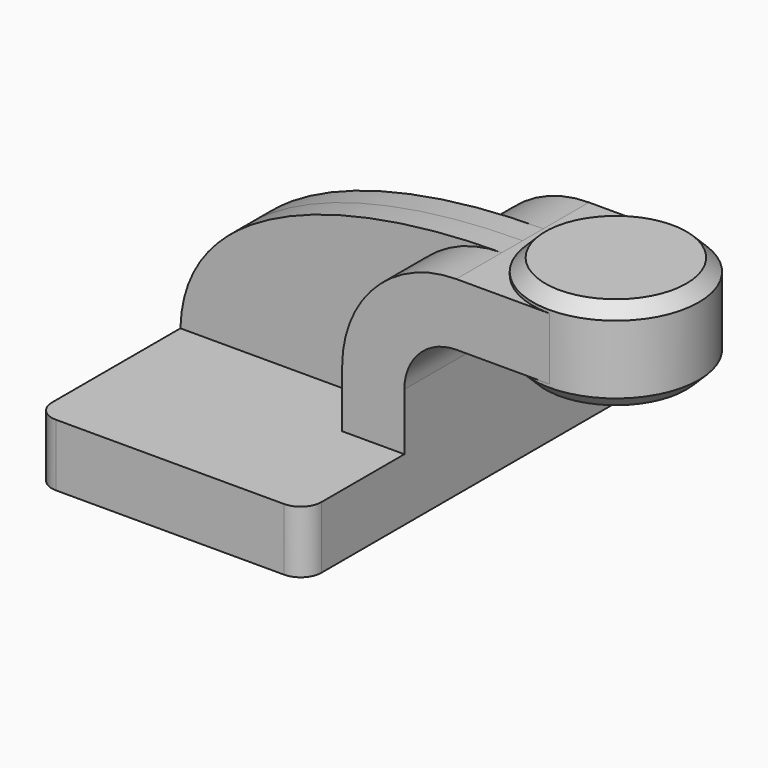
from build123d import *

# Parameters (mm, degrees)
F1_DEPTH = 63.5
F0_W     = 25.4
F0_H     = 19.05
F2_DEPTH = 25.4
F3_DEPTH = 7.9375
F5_R     = 6.35
F6_SIZE  = 3.81


with BuildPart() as f1:
    # F0 (on Front) → F1 (new body, symmetric)
    with BuildSketch(Plane.XZ):
        Polygon((-41.275, -9.525), (41.275, -9.525), (41.275, 9.525), (22.225, 9.525), (-41.275, 9.525), align=None)
    extrude(amount=F1_DEPTH, both=True)

    # F0 (on Front) → F2 (join, symmetric)
    with BuildSketch(Plane.XZ):
        with BuildLine():
            Line((22.225, 9.525), (41.275, 9.525))
            Line((41.275, 9.525), (41.275, 27.0002))
            ThreePointArc((41.275, 27.0002), (45.9246798487, 38.2255201513), (57.15, 42.8752))
            Line((57.15, 42.8752), (60.325, 42.8752))
            Line((60.325, 42.8752), (60.325, 61.9252))
            Line((60.325, 61.9252), (57.15, 61.9252))
            ThreePointArc((57.15, 61.9252), (32.4542956671, 51.6959043329), (22.225, 27.0002))
            Line((22.225, 27.0002), (22.225, 9.525))
        make_face()
        with Locations((73.025, 52.4002)):
            Rectangle(F0_W, F0_H)
    extrude(amount=F2_DEPTH, both=True)

    # F0 (on Front) → F3 (join, symmetric)
    with BuildSketch(Plane.XZ):
        with BuildLine():
            add(Edge.make_bspline(
                [(-41.275, 9.525), (-40.3791815042, 47.0926873386), (9.2821996659, 61.9340203702), (57.15, 61.9252)],
                knots=[0, 0, 0, 0, 111.5045361635, 111.5045361635, 111.5045361635, 111.5045361635], degree=3))
            Line((-41.275, 9.525), (22.225, 9.525))
            Line((22.225, 9.525), (22.225, 27.0002))
            ThreePointArc((22.225, 27.0002), (32.4542956671, 51.6959043329), (57.15, 61.9252))
        make_face()
    extrude(amount=F3_DEPTH, both=True)

    # F0 (on Front) → F4 (revolve)
    with BuildSketch(Plane.XZ):
        Polygon((85.725, 66.675), (85.725, 61.9252), (85.725, 42.8752), (85.725, 38.1), (111.125, 38.1), (111.125, 66.675), align=None)
    revolve(axis=Axis((85.725, 0, 52.3875), (0, 0, -1)))

    # F5
    f5_edges = [f1.edges().sort_by_distance(p)[0] for p in [
        (41.275, 63.5, 0),
        (-41.275, 63.5, 0),
        (41.275, -63.5, 0),
        (-41.275, -63.5, 0),
    ]]
    fillet(f5_edges, radius=F5_R)

    # F6
    f6_edges = [f1.edges().sort_by_distance(p)[0] for p in [
        (60.325, 0, 66.675),
        (60.325, 0, 38.1),
    ]]
    chamfer(f6_edges, length=F6_SIZE)


solid = f1.part
